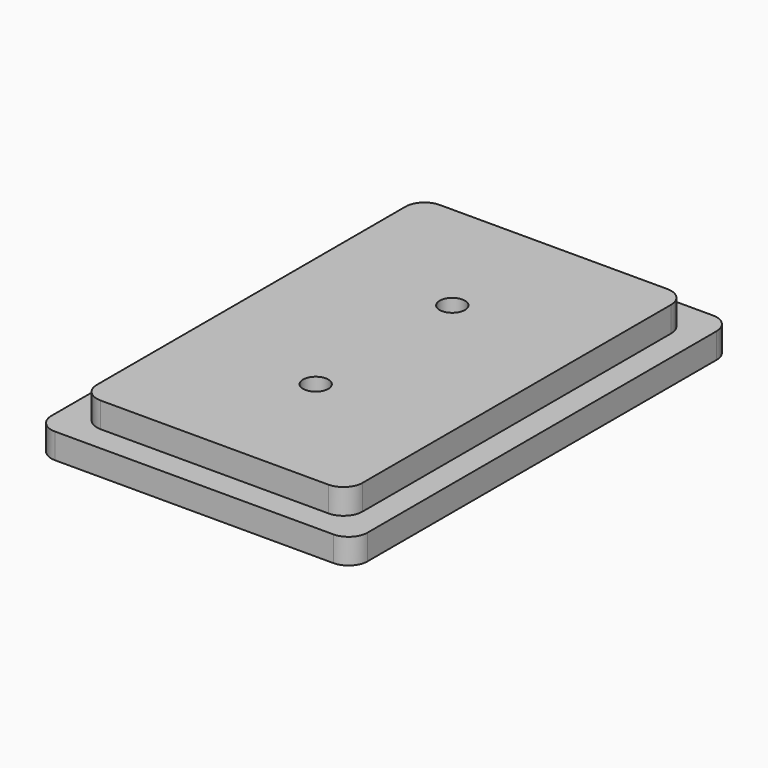
from build123d import *

# Parameters (mm, degrees)
F0_W     = 50
F0_H     = 75
F1_DEPTH = 4
F2_W     = 42
F2_H     = 67
F3_DEPTH = 4
F4_R     = 3
F5_R     = 2
F6_DEPTH = 25


with BuildPart() as f1:
    # F0 (on Top) → F1 (new body)
    with BuildSketch(Plane.XY):
        with Locations((25, -37.5)):
            Rectangle(F0_W, F0_H)
        with Locations((25, -37.5)):
            Rectangle(F0_W, F0_H)
    extrude(amount=F1_DEPTH)

    # F2 (on face) → F3 (join)
    with BuildSketch(Plane.XY.offset(4)):
        with Locations((25, -37.5)):
            Rectangle(F2_W, F2_H)
    extrude(amount=F3_DEPTH)

    # F4
    f4_edges = [f1.edges().sort_by_distance(p)[0] for p in [
        (50, 0, 2),
        (4, -4, 6),
        (0, 0, 2),
        (46, -4, 6),
        (46, -71, 6),
        (50, -75, 2),
        (4, -71, 6),
        (0, -75, 2),
    ]]
    fillet(f4_edges, radius=F4_R)

    # F5 (on face) → F6 (cut)
    with BuildSketch(Plane.XY.offset(8)):
        with Locations((25, -51)):
            Circle(F5_R)
        with Locations((25, -24)):
            Circle(F5_R)
    extrude(amount=-F6_DEPTH, mode=Mode.SUBTRACT)


solid = f1.part
